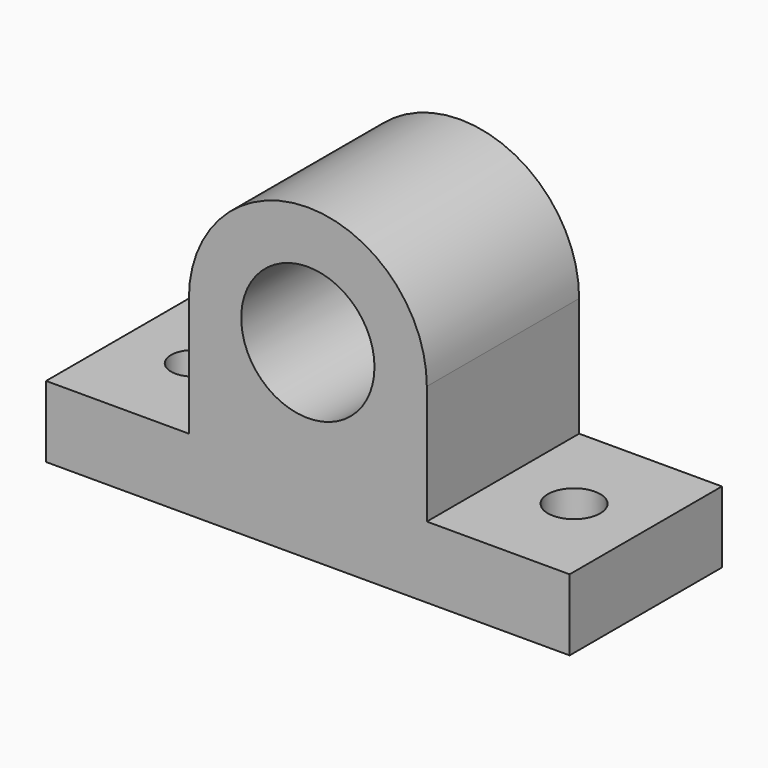
from build123d import *

# Parameters (mm, degrees)
F0_R     = 14
F1_DEPTH = 40
F2_R     = 4.733674
F2_R_2   = 5.5
F3_DEPTH = 25


with BuildPart() as f1:
    # F0 (on Front) → F1 (new body)
    with BuildSketch(Plane.XZ):
        with BuildLine():
            Line((-43.805312, -8.794249), (-43.805312, -23.794249))
            Line((-43.805312, -23.794249), (66.194688, -23.794249))
            Line((66.194688, -23.794249), (66.194688, -8.794249))
            Line((66.194688, -8.794249), (36.194688, -8.794249))
            Line((36.194688, -8.794249), (36.194688, 16.205751))
            ThreePointArc((36.194688, 16.205751), (11.194688, 41.205751), (-13.805312, 16.205751))
            Line((-13.805312, 16.205751), (-13.805312, -8.794249))
            Line((-13.805312, -8.794249), (-43.805312, -8.794249))
        make_face()
        with Locations((11.194688, 16.205751)):
            Circle(F0_R, mode=Mode.SUBTRACT)
    extrude(amount=F1_DEPTH)

    # F2 (on Top) → F3 (cut)
    with BuildSketch(Plane.XY):
        with Locations((-28.817502, -20)):
            Circle(F2_R)
        with Locations((51.097777, -19.957691)):
            Circle(F2_R_2)
    extrude(amount=-F3_DEPTH, mode=Mode.SUBTRACT)


solid = f1.part
